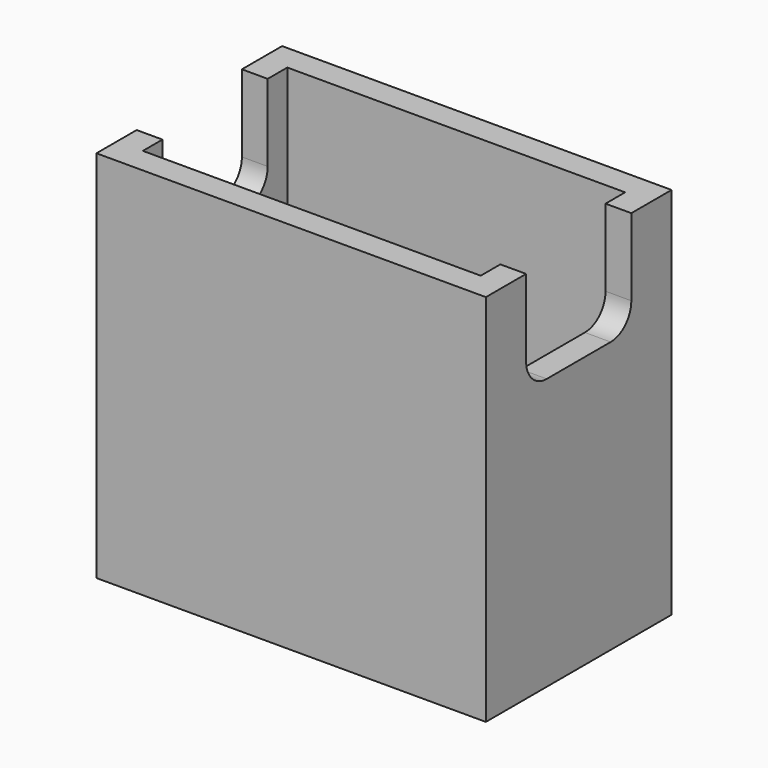
from build123d import *

# Parameters (mm, degrees)
SKETCH_W        = 15.1
SKETCH_H        = 9
PAD_DEPTH       = 14.5
SKETCH001_W     = 13.1
SKETCH001_H     = 7
POCKET_DEPTH    = 13.5
SKETCH002_R     = 3.125
POCKET001_DEPTH = 5
POCKET002_DEPTH = 15.101


with BuildPart() as part:
    # Sketch → Pad (new body)
    with BuildSketch(Plane.XY):
        Rectangle(SKETCH_W, SKETCH_H)
    extrude(amount=PAD_DEPTH)

    # Sketch001 (on Face6 of Pad) → Pocket (cut)
    with BuildSketch(Plane.XY.offset(14.5)):
        Rectangle(SKETCH001_W, SKETCH001_H)
    extrude(amount=-POCKET_DEPTH, mode=Mode.SUBTRACT)

    # Sketch002 (on Face4 of Pocket) → Pocket001 (cut)
    with BuildSketch(Plane(origin=(0, 0, 0), x_dir=(1, 0, 0), z_dir=(0, 0, -1))):
        Circle(SKETCH002_R)
    extrude(amount=-POCKET001_DEPTH, mode=Mode.SUBTRACT)

    # Sketch003 (on Face2 of Pocket001) → Pocket002 (cut, through all)
    with BuildSketch(Plane(origin=(-7.55, 0, 0), x_dir=(0, -1, 0), z_dir=(-1, 0, 0))):
        with BuildLine():
            Line((-2.549494, 14.5), (2.549494, 14.5))
            Line((2.549494, 14.5), (2.549494, 11.50906))
            ThreePointArc((1.549494, 10.50906), (2.256601, 10.801953), (2.549494, 11.50906))
            Line((1.549494, 10.50906), (-1.549494, 10.50906))
            ThreePointArc((-2.549494, 11.50906), (-2.256601, 10.801953), (-1.549494, 10.50906))
            Line((-2.549494, 11.50906), (-2.549494, 14.5))
        make_face()
    extrude(amount=-POCKET002_DEPTH, mode=Mode.SUBTRACT)


solid = part.part
